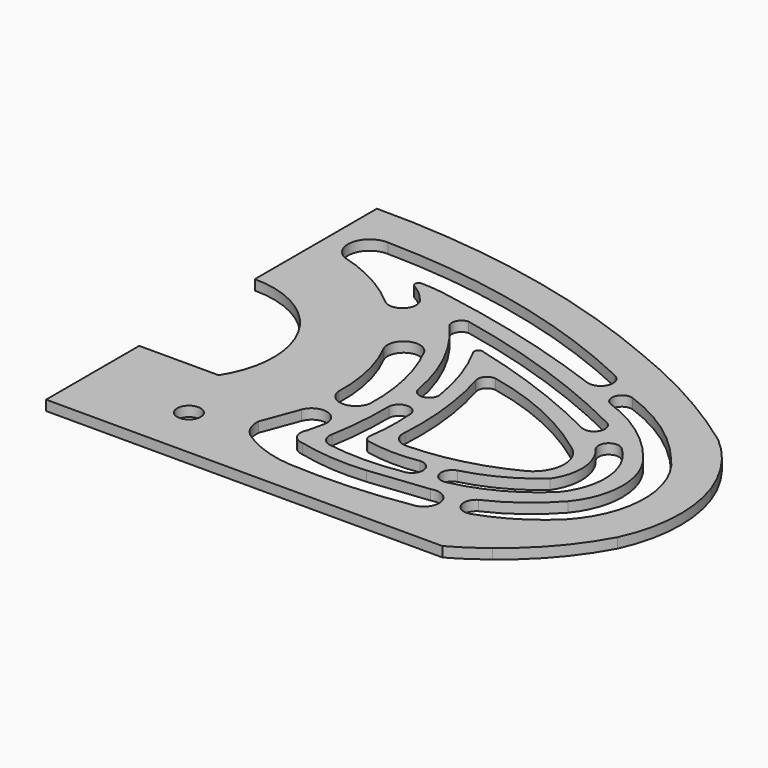
from build123d import *

# Parameters (mm, degrees)
PAD005_DEPTH            = 3
POCKET017_DEPTH         = 3.001
POCKET018_DEPTH         = 3.001
POCKET020_DEPTH         = 3.001
POCKET024_DEPTH         = 3.001
POCKET022_DEPTH         = 3.001
POCKET023_DEPTH         = 3.001
POCKET019_DEPTH         = 3.001
POCKET025_DEPTH         = 3.001
POCKET021_DEPTH         = 3.001
COPYCOPYCOPYSKETCH023_R = 3.5
POCKET034_DEPTH         = 5
BODY004_PLACEMENT_ANGLE = 180


with BuildPart() as part:
    # Sketch024 → Pad005 (new body)
    with BuildSketch(Plane.XY):
        with BuildLine():
            Line((0, 67.42), (0, -55.65))
            Line((0, -55.65), (-117.94, -55.65))
            ThreePointArc((-127.64, -49.11), (-122.947197, -52.613151), (-117.94, -55.65))
            ThreePointArc((-146.95, -26.77), (-138.520798, -38.999541), (-127.64, -49.11))
            ThreePointArc((-148.54, 6.09), (-150.980867, -10.496574), (-146.95, -26.77))
            ThreePointArc((-134.5, 26.2), (-142.831473, 17.060618), (-148.54, 6.09))
            ThreePointArc((-94.13, 48.54), (-115.023795, 38.650843), (-134.5, 26.2))
            ThreePointArc((0, 67.42), (-48.036997, 62.826084), (-94.13, 48.54))
        make_face()
    extrude(amount=PAD005_DEPTH)

    # CopySketch021002 → Pocket017 (cut, through all)
    with BuildSketch(Plane.XY.offset(3)):
        with BuildLine():
            ThreePointArc((0, 22), (-24.535688, 7.490738), (-23.643181, -21))
            Line((-23.643181, -21), (0, -21))
            Line((0, -21), (0, 22))
        make_face()
        with BuildLine():
            ThreePointArc((-45.15951, 13.5), (-47.417918, 19.740491), (-53.752095, 17.76))
            ThreePointArc((-53.752095, 17.76), (-58.626578, 4.267932), (-60.018385, -10.01))
            ThreePointArc((-60.018385, -10.01), (-55.15457, -14.259051), (-50.463519, -9.82))
            ThreePointArc((-45.15951, 13.5), (-49.299707, 2.178481), (-50.463519, -9.82))
        make_face()
    extrude(amount=-POCKET017_DEPTH, mode=Mode.SUBTRACT)

    # CopySketch021003 → Pocket018 (cut, through all)
    with BuildSketch(Plane.XY.offset(3)):
        with BuildLine():
            ThreePointArc((-49.444058, -22.5277), (-54.944649, -19.654794), (-58.184448, -24.9476))
            Line((-57.0427, -29.8572), (-58.184448, -24.9476))
            ThreePointArc((-60.1254, -35.4518), (-57.027903, -33.511958), (-57.0427, -29.8572))
            ThreePointArc((-80.4488, -36.935), (-70.225534, -37.037002), (-60.1254, -35.4518))
            Line((-97.9175, -34.995), (-80.4488, -36.935))
            ThreePointArc((-97.9175, -34.995), (-103.82056, -38.432829), (-99.6413, -43.8364))
            ThreePointArc((-99.6413, -43.8364), (-82.042265, -45.74625), (-64.34, -45.6882))
            ThreePointArc((-64.34, -45.6882), (-56.228822, -44.011588), (-48.7903, -40.3687))
            ThreePointArc((-48.7903, -40.3687), (-46.155403, -37.339305), (-45.3966, -33.3967))
            Line((-49.444058, -22.5277), (-45.3966, -33.3967))
        make_face()
    extrude(amount=-POCKET018_DEPTH, mode=Mode.SUBTRACT)

    # CopySketch021005 → Pocket020 (cut, through all)
    with BuildSketch(Plane.XY.offset(3)):
        with BuildLine():
            ThreePointArc((-64.365395, -8.62779), (-67.742586, -5.639295), (-70.674058, -9.0661))
            ThreePointArc((-70.674058, -9.0661), (-70.835475, -15.903269), (-70.2223, -22.7148))
            ThreePointArc((-71.4121, -25.164), (-70.40839, -24.137996), (-70.2223, -22.7148))
            ThreePointArc((-87.147068, -25.4704), (-79.265214, -26.055148), (-71.4121, -25.164))
            ThreePointArc((-87.147068, -25.4704), (-90.683175, -28.650592), (-87.411994, -32.1027))
            ThreePointArc((-87.411994, -32.1027), (-76.595145, -33.065808), (-65.7651, -32.2646))
            ThreePointArc((-65.7651, -32.2646), (-63.346864, -30.693689), (-62.8224, -27.8581))
            ThreePointArc((-64.365395, -8.62779), (-64.044087, -18.279067), (-62.8224, -27.8581))
        make_face()
    extrude(amount=-POCKET020_DEPTH, mode=Mode.SUBTRACT)

    # CopySketch021006 → Pocket024 (cut, through all)
    with BuildSketch(Plane.XY.offset(3)):
        with BuildLine():
            ThreePointArc((-72.02, 14.094017), (-72.392692, 16.846151), (-74.97, 17.880861))
            ThreePointArc((-74.97, 17.880861), (-93.250673, 11.950737), (-109.81, 2.196863))
            ThreePointArc((-109.81, 2.196863), (-114.369998, -5.844169), (-109.82, -13.890864))
            ThreePointArc((-109.82, -13.890864), (-95.344007, -19.39947), (-80, -21.511475))
            ThreePointArc((-80, -21.511475), (-76.570681, -20.127404), (-75.5, -16.587696))
            ThreePointArc((-72.02, 14.094017), (-75.072637, -1.097957), (-75.5, -16.587696))
        make_face()
    extrude(amount=-POCKET024_DEPTH, mode=Mode.SUBTRACT)

    # CopySketch021007 → Pocket022 (cut, through all)
    with BuildSketch(Plane.XY.offset(3)):
        with BuildLine():
            ThreePointArc((-98.800419, -30.00485), (-94.734065, -27.856904), (-96.886613, -23.792983))
            ThreePointArc((-116.257935, -13.543183), (-107.162558, -19.783674), (-96.886613, -23.792983))
            ThreePointArc((-115.288548, 4.68), (-118.878907, -4.266385), (-116.257935, -13.543183))
            ThreePointArc((-115.288548, 4.68), (-115.784536, 8.891716), (-120.0081, 8.509533))
            ThreePointArc((-120.0081, 8.509533), (-126.190374, -3.981903), (-122.223343, -17.343009))
            ThreePointArc((-122.223343, -17.343009), (-111.413274, -25.3414), (-98.800419, -30.00485))
        make_face()
    extrude(amount=-POCKET022_DEPTH, mode=Mode.SUBTRACT)

    # CopySketch021008 → Pocket023 (cut, through all)
    with BuildSketch(Plane.XY.offset(3)):
        with BuildLine():
            ThreePointArc((-103.601499, 24.683247), (-102.23683, 28.460376), (-105.872604, 30.166298))
            ThreePointArc((-105.872604, 30.166298), (-120.215401, 22.727476), (-132.072524, 11.752025))
            ThreePointArc((-132.072524, 11.752025), (-139.729925, -7.755401), (-131.983106, -27.22749))
            ThreePointArc((-131.983106, -27.22749), (-123.229381, -34.095551), (-113.177794, -38.866668))
            ThreePointArc((-113.177794, -38.866668), (-108.540165, -37.030837), (-109.968182, -32.251858))
            ThreePointArc((-126.694192, -19.799013), (-118.971743, -26.885797), (-109.968182, -32.251858))
            ThreePointArc((-126.624592, 8.183725), (-131.669932, -5.795181), (-126.694192, -19.799013))
            ThreePointArc((-103.601499, 24.683247), (-116.290857, 18.07698), (-126.624592, 8.183725))
        make_face()
    extrude(amount=-POCKET023_DEPTH, mode=Mode.SUBTRACT)

    # CopySketch021009 → Pocket019 (cut, through all)
    with BuildSketch(Plane.XY.offset(3)):
        with BuildLine():
            ThreePointArc((-50.283742, 31.504046), (-49.647546, 34.54879), (-52.191507, 36.338616))
            ThreePointArc((-52.191507, 36.338616), (-81.328643, 28.362539), (-109.1608, 16.616836))
            ThreePointArc((-109.1608, 16.616836), (-110.288036, 12.383863), (-106.13456, 10.991977))
            ThreePointArc((-64.402467, 26.573807), (-85.690853, 19.914024), (-106.13456, 10.991977))
            ThreePointArc((-62.78, 24.679977), (-62.809905, 26.296266), (-64.402467, 26.573807))
            ThreePointArc((-62.78, 24.679977), (-67.226683, 14.561044), (-69.887292, 3.833184))
            ThreePointArc((-69.887292, 3.833184), (-67.736073, 0.176429), (-64.257156, 2.604748))
            ThreePointArc((-50.283742, 31.504046), (-59.288565, 18.030198), (-64.257156, 2.604748))
        make_face()
    extrude(amount=-POCKET019_DEPTH, mode=Mode.SUBTRACT)

    # CopySketch021004 → Pocket025 (cut, through all)
    with BuildSketch(Plane.XY.offset(3)):
        with BuildLine():
            ThreePointArc((-50.283742, 31.504046), (-49.647546, 34.54879), (-52.191507, 36.338616))
            ThreePointArc((-52.191507, 36.338616), (-81.328643, 28.362539), (-109.1608, 16.616836))
            ThreePointArc((-109.1608, 16.616836), (-110.288036, 12.383863), (-106.13456, 10.991977))
            ThreePointArc((-64.402467, 26.573807), (-85.690853, 19.914024), (-106.13456, 10.991977))
            ThreePointArc((-62.78, 24.679977), (-62.809905, 26.296266), (-64.402467, 26.573807))
            ThreePointArc((-62.78, 24.679977), (-67.226683, 14.561044), (-69.887292, 3.833184))
            ThreePointArc((-69.887292, 3.833184), (-67.736073, 0.176429), (-64.257156, 2.604748))
            ThreePointArc((-50.283742, 31.504046), (-59.288565, 18.030198), (-64.257156, 2.604748))
        make_face()
    extrude(amount=-POCKET025_DEPTH, mode=Mode.SUBTRACT)

    # CopySketch021010 → Pocket021 (cut, through all)
    with BuildSketch(Plane.XY.offset(3)):
        with BuildLine():
            ThreePointArc((-95.442672, 36.502192), (-97.482535, 31.79948), (-92.84279, 29.620188))
            ThreePointArc((-41.465962, 43.393869), (-67.471527, 37.690024), (-92.84279, 29.620188))
            ThreePointArc((-31.493419, 44.517429), (-36.50836, 44.210116), (-41.465962, 43.393869))
            ThreePointArc((-31.299124, 42.370301), (-30.554517, 43.520036), (-31.493419, 44.517429))
            ThreePointArc((-31.299124, 42.370301), (-33.877911, 40.536126), (-36.077509, 38.26102))
            ThreePointArc((-36.077509, 38.26102), (-36.412838, 32.470844), (-30.619491, 32.195671))
            ThreePointArc((-9.425793, 43.552177), (-20.673272, 39.08814), (-30.619491, 32.195671))
            ThreePointArc((-9.425793, 43.552177), (-6.127962, 50.951278), (-12.675069, 55.721791))
            ThreePointArc((-12.675069, 55.721791), (-55.094244, 50.570744), (-95.442672, 36.502192))
        make_face()
    extrude(amount=-POCKET021_DEPTH, mode=Mode.SUBTRACT)

    # CopyCopyCopySketch023 → Pocket034 (cut)
    with BuildSketch(Plane.XY.offset(3)):
        with Locations((-30, -40)):
            Circle(COPYCOPYCOPYSKETCH023_R)
    extrude(amount=-POCKET034_DEPTH, mode=Mode.SUBTRACT)


with BuildPart() as part_1:
    # Body004 placement: moved
    add(part.part.moved(Location((0, 0, 86))).rotate(Axis((0, 0, 86), (0, 1, 0)), BODY004_PLACEMENT_ANGLE))


solid = part_1.part
